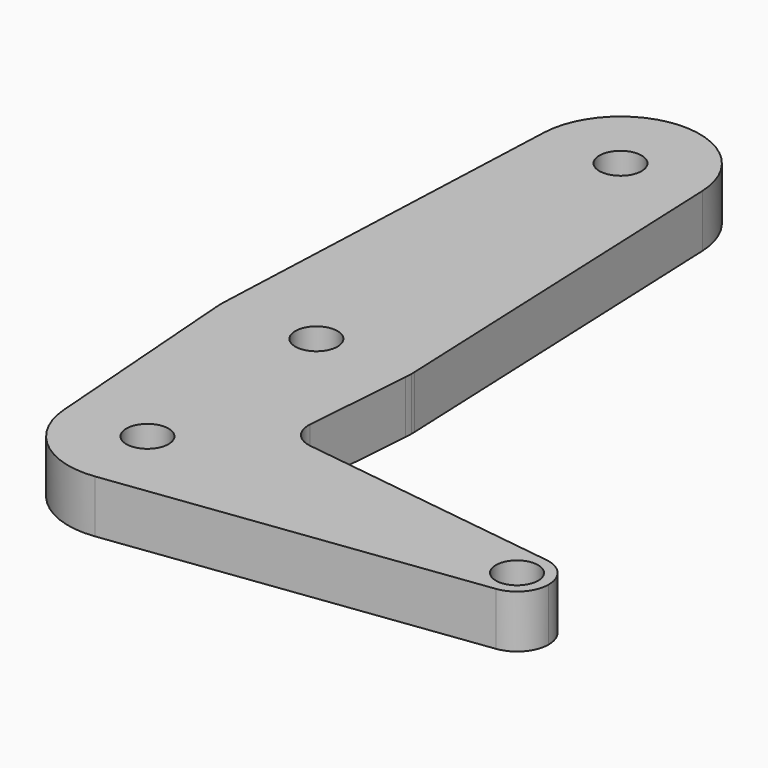
from build123d import *

# Parameters (mm, degrees)
F0_R     = 10
F1_DEPTH = 25


with BuildPart() as f1:
    # F0 (on Top) → F1 (new body)
    with BuildSketch(Plane.XY):
        with BuildLine():
            ThreePointArc((-37.467434, 145.977961), (-0.78142, 106.923603), (37.5, 144.415461))
            ThreePointArc((37.5, 144.415461), (37.491858, 145.196881), (37.467434, 145.977961))
            ThreePointArc((37.467434, 145.977961), (0, 181.915461), (-37.467434, 145.977961))
        make_face()
        with Locations((0, 144.415461)):
            Circle(F0_R, mode=Mode.SUBTRACT)
        with BuildLine():
            ThreePointArc((37.467434, 145.977961), (37.491858, 145.196881), (37.5, 144.415461))
            ThreePointArc((37.5, 144.415461), (-0.78142, 106.923603), (-37.467434, 145.977961))
            Line((-37.467434, 145.977961), (-44.960921, -33.709539))
            ThreePointArc((-44.960921, -33.709539), (0, 9.415461), (44.960921, -33.709539))
            Line((44.960921, -33.709539), (37.467434, 145.977961))
        make_face()
        with BuildLine():
            ThreePointArc((45, -35.584539), (44.990229, -34.646835), (44.960921, -33.709539))
            ThreePointArc((44.960921, -33.709539), (0, 9.415461), (-44.960921, -33.709539))
            ThreePointArc((-44.960921, -33.709539), (-44.993728, -36.335819), (-44.873259, -38.959539))
            ThreePointArc((-44.873259, -38.959539), (0, -80.584539), (44.873259, -38.959539))
            ThreePointArc((44.873259, -38.959539), (44.968304, -37.273228), (45, -35.584539))
        make_face()
        with Locations((0, -35.584539)):
            Circle(F0_R, mode=Mode.SUBTRACT)
        with BuildLine():
            ThreePointArc((37.5, -135.584539), (-1.407241, -98.110953), (-37.394383, -138.397039))
            ThreePointArc((-37.394383, -138.397039), (-23.678706, -164.663206), (4.821429, -172.773298))
            ThreePointArc((4.821429, -172.773298), (27.220865, -161.377455), (37.394383, -138.397039))
            ThreePointArc((37.394383, -138.397039), (37.473586, -136.99178), (37.5, -135.584539))
        make_face()
        with Locations((0, -135.584539)):
            Circle(F0_R, mode=Mode.SUBTRACT)
        with BuildLine():
            ThreePointArc((44.873259, -38.959539), (0, -80.584539), (-44.873259, -38.959539))
            Line((-44.873259, -38.959539), (-37.394383, -138.397039))
            ThreePointArc((-37.394383, -138.397039), (-1.407241, -98.110953), (37.5, -135.584539))
            ThreePointArc((37.5, -135.584539), (37.473586, -136.99178), (37.394383, -138.397039))
            ThreePointArc((37.394383, -138.397039), (27.220865, -161.377455), (4.821429, -172.773298))
            Line((4.821429, -172.773298), (176.928571, -150.460043))
            ThreePointArc((176.928571, -150.460043), (160, -135.584539), (176.928571, -120.709035))
            Line((176.928571, -120.709035), (52.294228, -103.985076))
            ThreePointArc((52.294228, -103.985076), (43.940438, -99.647715), (40.980829, -90.712435))
            ThreePointArc((40.980829, -90.712435), (40.98868, -90.601446), (40.997519, -90.490531))
            Line((40.997519, -90.490531), (44.873259, -38.959539))
        make_face()
        with BuildLine():
            ThreePointArc((176.928571, -120.709035), (160, -135.584539), (176.928571, -150.460043))
            ThreePointArc((176.928571, -150.460043), (186.267843, -145.485838), (190, -135.584539))
            ThreePointArc((190, -135.584539), (186.267843, -125.68324), (176.928571, -120.709035))
        make_face()
        with Locations((175, -135.584539)):
            Circle(F0_R, mode=Mode.SUBTRACT)
    extrude(amount=F1_DEPTH)


solid = f1.part
